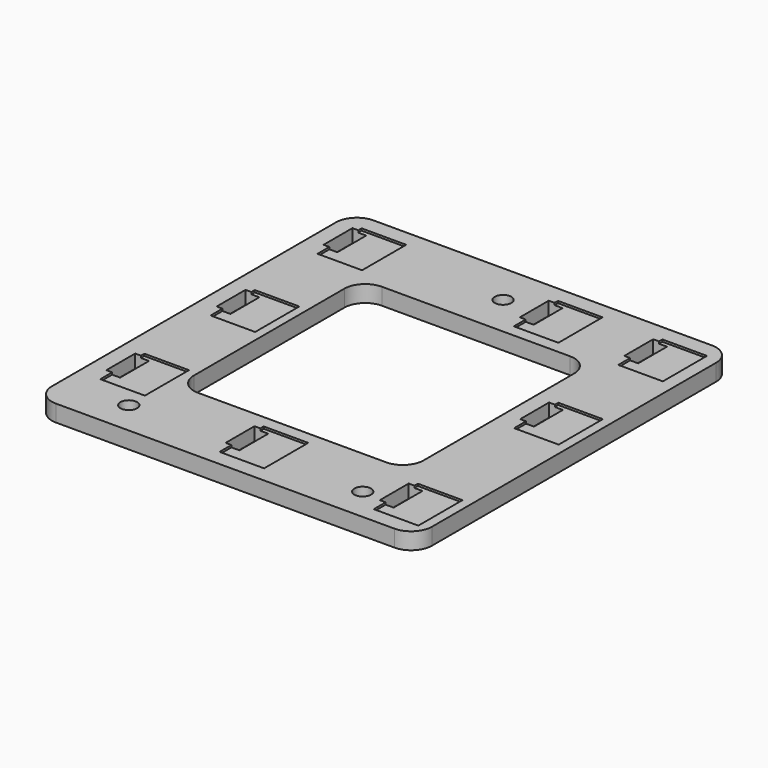
from build123d import *

# Parameters (mm, degrees)
F0_W     = 91
F0_H     = 95
F0_R     = 2
F0_W_2   = 55
F0_H_2   = 55
F1_DEPTH = 4
F3_DEPTH = 0.5
F4_DEPTH = 3.2
F5_DEPTH = 25
F7_R     = 5


with BuildPart() as f1:
    # F0 (on Top) → F1 (new body)
    with BuildSketch(Plane.XY):
        with Locations((12.8374768794, -18.1373349681)):
            Rectangle(F0_W, F0_H)
        with Locations((-16.6625231206, -57.6373349681)):
            Circle(F0_R, mode=Mode.SUBTRACT)
        with Locations((39.3374768794, -57.6373349681)):
            Circle(F0_R, mode=Mode.SUBTRACT)
        with Locations((11.3374768794, 19.3626650319)):
            Circle(F0_R, mode=Mode.SUBTRACT)
        with Locations((12.8374768794, -18.1373349681)):
            Rectangle(F0_W_2, F0_H_2, mode=Mode.SUBTRACT)
    extrude(amount=F1_DEPTH)

    # F2 (on face) → F3 (cut)
    with BuildSketch(Plane.XY.offset(4)):
        Polygon((44.6034768794, 12.2586650319), (55.2714768794, 12.2586650319), (55.2714768794, 25.4666650319), (44.6034768794, 25.4666650319), (44.6034768794, 24.4506650319), (46.5084768794, 24.4506650319), (46.5084768794, 15.8146650319), (44.6034768794, 15.8146650319), align=None)
        with BuildLine():
            Line((43.2064768794, 15.8146650319), (44.6034768794, 15.8146650319))
            Line((44.6034768794, 15.8146650319), (44.6034768794, 17.0216054903))
            ThreePointArc((44.6034768794, 17.0216054903), (44.2324768794, 17.5926650319), (44.6034768794, 18.1637245734))
            Line((44.6034768794, 18.1637245734), (44.6034768794, 19.5616054903))
            ThreePointArc((44.6034768794, 19.5616054903), (44.2324768794, 20.1326650319), (44.6034768794, 20.7037245734))
            Line((44.6034768794, 20.7037245734), (44.6034768794, 22.1016054903))
            ThreePointArc((44.6034768794, 22.1016054903), (44.2324768794, 22.6726650319), (44.6034768794, 23.2437245734))
            Line((44.6034768794, 23.2437245734), (44.6034768794, 24.4506650319))
            Line((44.6034768794, 24.4506650319), (43.2064768794, 24.4506650319))
            Line((43.2064768794, 24.4506650319), (43.2064768794, 15.8146650319))
        make_face()
        with BuildLine():
            Line((44.6034768794, 17.0216054903), (44.6034768794, 15.8146650319))
            Line((44.6034768794, 15.8146650319), (46.5084768794, 15.8146650319))
            Line((46.5084768794, 15.8146650319), (46.5084768794, 24.4506650319))
            Line((46.5084768794, 24.4506650319), (44.6034768794, 24.4506650319))
            Line((44.6034768794, 24.4506650319), (44.6034768794, 23.2437245734))
            ThreePointArc((44.6034768794, 23.2437245734), (45.1979728412, 23.1967714142), (45.4824768794, 22.6726650319))
            ThreePointArc((45.4824768794, 22.6726650319), (45.1979728412, 22.1485586495), (44.6034768794, 22.1016054903))
            Line((44.6034768794, 22.1016054903), (44.6034768794, 20.7037245734))
            ThreePointArc((44.6034768794, 20.7037245734), (45.1979728412, 20.6567714142), (45.4824768794, 20.1326650319))
            ThreePointArc((45.4824768794, 20.1326650319), (45.1979728412, 19.6085586495), (44.6034768794, 19.5616054903))
            Line((44.6034768794, 19.5616054903), (44.6034768794, 18.1637245734))
            ThreePointArc((44.6034768794, 18.1637245734), (45.1979728412, 18.1167714142), (45.4824768794, 17.5926650319))
            ThreePointArc((45.4824768794, 17.5926650319), (45.1979728412, 17.0685586495), (44.6034768794, 17.0216054903))
        make_face()
        Polygon((30.2714768794, 12.2586650319), (30.2714768794, 25.4666650319), (19.6034768794, 25.4666650319), (19.6034768794, 24.4506650319), (21.5084768794, 24.4506650319), (21.5084768794, 15.8146650319), (19.6034768794, 15.8146650319), (19.6034768794, 12.2586650319), align=None)
        with BuildLine():
            Line((19.6034768794, 23.2437245734), (19.6034768794, 24.4506650319))
            Line((19.6034768794, 24.4506650319), (18.2064768794, 24.4506650319))
            Line((18.2064768794, 24.4506650319), (18.2064768794, 15.8146650319))
            Line((18.2064768794, 15.8146650319), (19.6034768794, 15.8146650319))
            Line((19.6034768794, 15.8146650319), (19.6034768794, 17.0216054903))
            ThreePointArc((19.6034768794, 17.0216054903), (19.2324768794, 17.5926650319), (19.6034768794, 18.1637245734))
            Line((19.6034768794, 18.1637245734), (19.6034768794, 19.5616054903))
            ThreePointArc((19.6034768794, 19.5616054903), (19.2324768794, 20.1326650319), (19.6034768794, 20.7037245734))
            Line((19.6034768794, 20.7037245734), (19.6034768794, 22.1016054903))
            ThreePointArc((19.6034768794, 22.1016054903), (19.2324768794, 22.6726650319), (19.6034768794, 23.2437245734))
        make_face()
        with BuildLine():
            Line((21.5084768794, 24.4506650319), (19.6034768794, 24.4506650319))
            Line((19.6034768794, 24.4506650319), (19.6034768794, 23.2437245734))
            ThreePointArc((19.6034768794, 23.2437245734), (20.1979728412, 23.1967714142), (20.4824768794, 22.6726650319))
            ThreePointArc((20.4824768794, 22.6726650319), (20.1979728412, 22.1485586495), (19.6034768794, 22.1016054903))
            Line((19.6034768794, 22.1016054903), (19.6034768794, 20.7037245734))
            ThreePointArc((19.6034768794, 20.7037245734), (20.1979728412, 20.6567714142), (20.4824768794, 20.1326650319))
            ThreePointArc((20.4824768794, 20.1326650319), (20.1979728412, 19.6085586495), (19.6034768794, 19.5616054903))
            Line((19.6034768794, 19.5616054903), (19.6034768794, 18.1637245734))
            ThreePointArc((19.6034768794, 18.1637245734), (20.1979728412, 18.1167714142), (20.4824768794, 17.5926650319))
            ThreePointArc((20.4824768794, 17.5926650319), (20.1979728412, 17.0685586495), (19.6034768794, 17.0216054903))
            Line((19.6034768794, 17.0216054903), (19.6034768794, 15.8146650319))
            Line((19.6034768794, 15.8146650319), (21.5084768794, 15.8146650319))
            Line((21.5084768794, 15.8146650319), (21.5084768794, 24.4506650319))
        make_face()
        with BuildLine():
            Line((-27.3965231206, 24.4506650319), (-28.7935231206, 24.4506650319))
            Line((-28.7935231206, 24.4506650319), (-28.7935231206, 15.8146650319))
            Line((-28.7935231206, 15.8146650319), (-27.3965231206, 15.8146650319))
            Line((-27.3965231206, 15.8146650319), (-27.3965231206, 17.0216054903))
            ThreePointArc((-27.3965231206, 17.0216054903), (-27.7675231206, 17.5926650319), (-27.3965231206, 18.1637245734))
            Line((-27.3965231206, 18.1637245734), (-27.3965231206, 19.5616054903))
            ThreePointArc((-27.3965231206, 19.5616054903), (-27.7675231206, 20.1326650319), (-27.3965231206, 20.7037245734))
            Line((-27.3965231206, 20.7037245734), (-27.3965231206, 22.1016054903))
            ThreePointArc((-27.3965231206, 22.1016054903), (-27.7675231206, 22.6726650319), (-27.3965231206, 23.2437245734))
            Line((-27.3965231206, 23.2437245734), (-27.3965231206, 24.4506650319))
        make_face()
        with BuildLine():
            Line((-25.4915231206, 24.4506650319), (-27.3965231206, 24.4506650319))
            Line((-27.3965231206, 24.4506650319), (-27.3965231206, 23.2437245734))
            ThreePointArc((-27.3965231206, 23.2437245734), (-26.8020271588, 23.1967714142), (-26.5175231206, 22.6726650319))
            ThreePointArc((-26.5175231206, 22.6726650319), (-26.8020271588, 22.1485586495), (-27.3965231206, 22.1016054903))
            Line((-27.3965231206, 22.1016054903), (-27.3965231206, 20.7037245734))
            ThreePointArc((-27.3965231206, 20.7037245734), (-26.8020271588, 20.6567714142), (-26.5175231206, 20.1326650319))
            ThreePointArc((-26.5175231206, 20.1326650319), (-26.8020271588, 19.6085586495), (-27.3965231206, 19.5616054903))
            Line((-27.3965231206, 19.5616054903), (-27.3965231206, 18.1637245734))
            ThreePointArc((-27.3965231206, 18.1637245734), (-26.8020271588, 18.1167714142), (-26.5175231206, 17.5926650319))
            ThreePointArc((-26.5175231206, 17.5926650319), (-26.8020271588, 17.0685586495), (-27.3965231206, 17.0216054903))
            Line((-27.3965231206, 17.0216054903), (-27.3965231206, 15.8146650319))
            Line((-27.3965231206, 15.8146650319), (-25.4915231206, 15.8146650319))
            Line((-25.4915231206, 15.8146650319), (-25.4915231206, 24.4506650319))
        make_face()
        Polygon((-27.3965231206, 25.4666650319), (-27.3965231206, 24.4506650319), (-25.4915231206, 24.4506650319), (-25.4915231206, 15.8146650319), (-27.3965231206, 15.8146650319), (-27.3965231206, 12.2586650319), (-16.7285231206, 12.2586650319), (-16.7285231206, 25.4666650319), align=None)
        Polygon((-27.3965231206, -7.5387597846), (-25.4915231206, -7.5387597846), (-25.4915231206, -16.1747597846), (-27.3965231206, -16.1747597846), (-27.3965231206, -19.7307597846), (-16.7285231206, -19.7307597846), (-16.7285231206, -6.5227597846), (-27.3965231206, -6.5227597846), align=None)
        with BuildLine():
            Line((-25.4915231206, -16.1747597846), (-25.4915231206, -7.5387597846))
            Line((-25.4915231206, -7.5387597846), (-27.3965231206, -7.5387597846))
            Line((-27.3965231206, -7.5387597846), (-27.3965231206, -8.745700243))
            ThreePointArc((-27.3965231206, -8.745700243), (-26.8020271588, -8.7926534022), (-26.5175231206, -9.3167597846))
            ThreePointArc((-26.5175231206, -9.3167597846), (-26.8020271588, -9.8408661669), (-27.3965231206, -9.8878193261))
            Line((-27.3965231206, -9.8878193261), (-27.3965231206, -11.285700243))
            ThreePointArc((-27.3965231206, -11.285700243), (-26.8020271588, -11.3326534022), (-26.5175231206, -11.8567597846))
            ThreePointArc((-26.5175231206, -11.8567597846), (-26.8020271588, -12.3808661669), (-27.3965231206, -12.4278193261))
            Line((-27.3965231206, -12.4278193261), (-27.3965231206, -13.825700243))
            ThreePointArc((-27.3965231206, -13.825700243), (-26.8020271588, -13.8726534022), (-26.5175231206, -14.3967597846))
            ThreePointArc((-26.5175231206, -14.3967597846), (-26.8020271588, -14.9208661669), (-27.3965231206, -14.9678193261))
            Line((-27.3965231206, -14.9678193261), (-27.3965231206, -16.1747597846))
            Line((-27.3965231206, -16.1747597846), (-25.4915231206, -16.1747597846))
        make_face()
        with BuildLine():
            Line((-27.3965231206, -8.745700243), (-27.3965231206, -7.5387597846))
            Line((-27.3965231206, -7.5387597846), (-28.7935231206, -7.5387597846))
            Line((-28.7935231206, -7.5387597846), (-28.7935231206, -16.1747597846))
            Line((-28.7935231206, -16.1747597846), (-27.3965231206, -16.1747597846))
            Line((-27.3965231206, -16.1747597846), (-27.3965231206, -14.9678193261))
            ThreePointArc((-27.3965231206, -14.9678193261), (-27.7675231206, -14.3967597846), (-27.3965231206, -13.825700243))
            Line((-27.3965231206, -13.825700243), (-27.3965231206, -12.4278193261))
            ThreePointArc((-27.3965231206, -12.4278193261), (-27.7675231206, -11.8567597846), (-27.3965231206, -11.285700243))
            Line((-27.3965231206, -11.285700243), (-27.3965231206, -9.8878193261))
            ThreePointArc((-27.3965231206, -9.8878193261), (-27.7675231206, -9.3167597846), (-27.3965231206, -8.745700243))
        make_face()
        Polygon((-27.3965231206, -52.7413349681), (-16.7285231206, -52.7413349681), (-16.7285231206, -39.5333349681), (-27.3965231206, -39.5333349681), (-27.3965231206, -40.5493349681), (-25.4915231206, -40.5493349681), (-25.4915231206, -49.1853349681), (-27.3965231206, -49.1853349681), align=None)
        with BuildLine():
            Line((-28.7935231206, -49.1853349681), (-27.3965231206, -49.1853349681))
            Line((-27.3965231206, -49.1853349681), (-27.3965231206, -47.9783945097))
            ThreePointArc((-27.3965231206, -47.9783945097), (-27.7675231206, -47.4073349681), (-27.3965231206, -46.8362754266))
            Line((-27.3965231206, -46.8362754266), (-27.3965231206, -45.4383945097))
            ThreePointArc((-27.3965231206, -45.4383945097), (-27.7675231206, -44.8673349681), (-27.3965231206, -44.2962754266))
            Line((-27.3965231206, -44.2962754266), (-27.3965231206, -42.8983945097))
            ThreePointArc((-27.3965231206, -42.8983945097), (-27.7675231206, -42.3273349681), (-27.3965231206, -41.7562754266))
            Line((-27.3965231206, -41.7562754266), (-27.3965231206, -40.5493349681))
            Line((-27.3965231206, -40.5493349681), (-28.7935231206, -40.5493349681))
            Line((-28.7935231206, -40.5493349681), (-28.7935231206, -49.1853349681))
        make_face()
        with BuildLine():
            Line((-27.3965231206, -47.9783945097), (-27.3965231206, -49.1853349681))
            Line((-27.3965231206, -49.1853349681), (-25.4915231206, -49.1853349681))
            Line((-25.4915231206, -49.1853349681), (-25.4915231206, -40.5493349681))
            Line((-25.4915231206, -40.5493349681), (-27.3965231206, -40.5493349681))
            Line((-27.3965231206, -40.5493349681), (-27.3965231206, -41.7562754266))
            ThreePointArc((-27.3965231206, -41.7562754266), (-26.8020271588, -41.8032285858), (-26.5175231206, -42.3273349681))
            ThreePointArc((-26.5175231206, -42.3273349681), (-26.8020271588, -42.8514413505), (-27.3965231206, -42.8983945097))
            Line((-27.3965231206, -42.8983945097), (-27.3965231206, -44.2962754266))
            ThreePointArc((-27.3965231206, -44.2962754266), (-26.8020271588, -44.3432285858), (-26.5175231206, -44.8673349681))
            ThreePointArc((-26.5175231206, -44.8673349681), (-26.8020271588, -45.3914413505), (-27.3965231206, -45.4383945097))
            Line((-27.3965231206, -45.4383945097), (-27.3965231206, -46.8362754266))
            ThreePointArc((-27.3965231206, -46.8362754266), (-26.8020271588, -46.8832285858), (-26.5175231206, -47.4073349681))
            ThreePointArc((-26.5175231206, -47.4073349681), (-26.8020271588, -47.9314413505), (-27.3965231206, -47.9783945097))
        make_face()
        with BuildLine():
            Line((7.003, -49.608), (7.003, -58.244))
            Line((7.003, -58.244), (8.4, -58.244))
            Line((8.4, -58.244), (8.4, -57.0370595416))
            ThreePointArc((8.4, -57.0370595416), (8.029, -56.466), (8.4, -55.8949404584))
            Line((8.4, -55.8949404584), (8.4, -54.4970595416))
            ThreePointArc((8.4, -54.4970595416), (8.029, -53.926), (8.4, -53.3549404584))
            Line((8.4, -53.3549404584), (8.4, -51.9570595416))
            ThreePointArc((8.4, -51.9570595416), (8.029, -51.386), (8.4, -50.8149404584))
            Line((8.4, -50.8149404584), (8.4, -49.608))
            Line((8.4, -49.608), (7.003, -49.608))
        make_face()
        with BuildLine():
            Line((8.4, -57.0370595416), (8.4, -58.244))
            Line((8.4, -58.244), (10.305, -58.244))
            Line((10.305, -58.244), (10.305, -49.608))
            Line((10.305, -49.608), (8.4, -49.608))
            Line((8.4, -49.608), (8.4, -50.8149404584))
            ThreePointArc((8.4, -50.8149404584), (8.9944959618, -50.8618936177), (9.279, -51.386))
            ThreePointArc((9.279, -51.386), (8.9944959618, -51.9101063823), (8.4, -51.9570595416))
            Line((8.4, -51.9570595416), (8.4, -53.3549404584))
            ThreePointArc((8.4, -53.3549404584), (8.9944959618, -53.4018936177), (9.279, -53.926))
            ThreePointArc((9.279, -53.926), (8.9944959618, -54.4501063823), (8.4, -54.4970595416))
            Line((8.4, -54.4970595416), (8.4, -55.8949404584))
            ThreePointArc((8.4, -55.8949404584), (8.9944959618, -55.9418936177), (9.279, -56.466))
            ThreePointArc((9.279, -56.466), (8.9944959618, -56.9901063823), (8.4, -57.0370595416))
        make_face()
        Polygon((10.305, -58.244), (8.4, -58.244), (8.4, -61.8), (19.068, -61.8), (19.068, -48.592), (8.4, -48.592), (8.4, -49.608), (10.305, -49.608), align=None)
        Polygon((45.4, -61.9), (56.068, -61.9), (56.068, -48.692), (45.4, -48.692), (45.4, -49.708), (47.305, -49.708), (47.305, -58.344), (45.4, -58.344), align=None)
        with BuildLine():
            Line((45.4, -57.1370595416), (45.4, -58.344))
            Line((45.4, -58.344), (47.305, -58.344))
            Line((47.305, -58.344), (47.305, -49.708))
            Line((47.305, -49.708), (45.4, -49.708))
            Line((45.4, -49.708), (45.4, -50.9149404584))
            ThreePointArc((45.4, -50.9149404584), (45.9944959618, -50.9618936177), (46.279, -51.486))
            ThreePointArc((46.279, -51.486), (45.9944959618, -52.0101063823), (45.4, -52.0570595416))
            Line((45.4, -52.0570595416), (45.4, -53.4549404584))
            ThreePointArc((45.4, -53.4549404584), (45.9944959618, -53.5018936177), (46.279, -54.026))
            ThreePointArc((46.279, -54.026), (45.9944959618, -54.5501063823), (45.4, -54.5970595416))
            Line((45.4, -54.5970595416), (45.4, -55.9949404584))
            ThreePointArc((45.4, -55.9949404584), (45.9944959618, -56.0418936177), (46.279, -56.566))
            ThreePointArc((46.279, -56.566), (45.9944959618, -57.0901063823), (45.4, -57.1370595416))
        make_face()
        with BuildLine():
            Line((44.003, -58.344), (45.4, -58.344))
            Line((45.4, -58.344), (45.4, -57.1370595416))
            ThreePointArc((45.4, -57.1370595416), (45.029, -56.566), (45.4, -55.9949404584))
            Line((45.4, -55.9949404584), (45.4, -54.5970595416))
            ThreePointArc((45.4, -54.5970595416), (45.029, -54.026), (45.4, -53.4549404584))
            Line((45.4, -53.4549404584), (45.4, -52.0570595416))
            ThreePointArc((45.4, -52.0570595416), (45.029, -51.486), (45.4, -50.9149404584))
            Line((45.4, -50.9149404584), (45.4, -49.708))
            Line((45.4, -49.708), (44.003, -49.708))
            Line((44.003, -49.708), (44.003, -58.344))
        make_face()
        Polygon((45.4, -7.708), (47.305, -7.708), (47.305, -16.344), (45.4, -16.344), (45.4, -19.9), (56.068, -19.9), (56.068, -6.692), (45.4, -6.692), align=None)
        with BuildLine():
            Line((47.305, -16.344), (47.305, -7.708))
            Line((47.305, -7.708), (45.4, -7.708))
            Line((45.4, -7.708), (45.4, -8.9149404584))
            ThreePointArc((45.4, -8.9149404584), (45.9944959618, -8.9618936177), (46.279, -9.486))
            ThreePointArc((46.279, -9.486), (45.9944959618, -10.0101063823), (45.4, -10.0570595416))
            Line((45.4, -10.0570595416), (45.4, -11.4549404584))
            ThreePointArc((45.4, -11.4549404584), (45.9944959618, -11.5018936177), (46.279, -12.026))
            ThreePointArc((46.279, -12.026), (45.9944959618, -12.5501063823), (45.4, -12.5970595416))
            Line((45.4, -12.5970595416), (45.4, -13.9949404584))
            ThreePointArc((45.4, -13.9949404584), (45.9944959618, -14.0418936177), (46.279, -14.566))
            ThreePointArc((46.279, -14.566), (45.9944959618, -15.0901063823), (45.4, -15.1370595416))
            Line((45.4, -15.1370595416), (45.4, -16.344))
            Line((45.4, -16.344), (47.305, -16.344))
        make_face()
        with BuildLine():
            Line((45.4, -8.9149404584), (45.4, -7.708))
            Line((45.4, -7.708), (44.003, -7.708))
            Line((44.003, -7.708), (44.003, -16.344))
            Line((44.003, -16.344), (45.4, -16.344))
            Line((45.4, -16.344), (45.4, -15.1370595416))
            ThreePointArc((45.4, -15.1370595416), (45.029, -14.566), (45.4, -13.9949404584))
            Line((45.4, -13.9949404584), (45.4, -12.5970595416))
            ThreePointArc((45.4, -12.5970595416), (45.029, -12.026), (45.4, -11.4549404584))
            Line((45.4, -11.4549404584), (45.4, -10.0570595416))
            ThreePointArc((45.4, -10.0570595416), (45.029, -9.486), (45.4, -8.9149404584))
        make_face()
    extrude(amount=-F3_DEPTH, mode=Mode.SUBTRACT)

    # F2 (on face) → F4 (cut)
    with BuildSketch(Plane.XY.offset(4)):
        with BuildLine():
            Line((43.2064768794, 15.8146650319), (44.6034768794, 15.8146650319))
            Line((44.6034768794, 15.8146650319), (44.6034768794, 17.0216054903))
            ThreePointArc((44.6034768794, 17.0216054903), (44.2324768794, 17.5926650319), (44.6034768794, 18.1637245734))
            Line((44.6034768794, 18.1637245734), (44.6034768794, 19.5616054903))
            ThreePointArc((44.6034768794, 19.5616054903), (44.2324768794, 20.1326650319), (44.6034768794, 20.7037245734))
            Line((44.6034768794, 20.7037245734), (44.6034768794, 22.1016054903))
            ThreePointArc((44.6034768794, 22.1016054903), (44.2324768794, 22.6726650319), (44.6034768794, 23.2437245734))
            Line((44.6034768794, 23.2437245734), (44.6034768794, 24.4506650319))
            Line((44.6034768794, 24.4506650319), (43.2064768794, 24.4506650319))
            Line((43.2064768794, 24.4506650319), (43.2064768794, 15.8146650319))
        make_face()
        with BuildLine():
            Line((44.6034768794, 17.0216054903), (44.6034768794, 15.8146650319))
            Line((44.6034768794, 15.8146650319), (46.5084768794, 15.8146650319))
            Line((46.5084768794, 15.8146650319), (46.5084768794, 24.4506650319))
            Line((46.5084768794, 24.4506650319), (44.6034768794, 24.4506650319))
            Line((44.6034768794, 24.4506650319), (44.6034768794, 23.2437245734))
            ThreePointArc((44.6034768794, 23.2437245734), (45.1979728412, 23.1967714142), (45.4824768794, 22.6726650319))
            ThreePointArc((45.4824768794, 22.6726650319), (45.1979728412, 22.1485586495), (44.6034768794, 22.1016054903))
            Line((44.6034768794, 22.1016054903), (44.6034768794, 20.7037245734))
            ThreePointArc((44.6034768794, 20.7037245734), (45.1979728412, 20.6567714142), (45.4824768794, 20.1326650319))
            ThreePointArc((45.4824768794, 20.1326650319), (45.1979728412, 19.6085586495), (44.6034768794, 19.5616054903))
            Line((44.6034768794, 19.5616054903), (44.6034768794, 18.1637245734))
            ThreePointArc((44.6034768794, 18.1637245734), (45.1979728412, 18.1167714142), (45.4824768794, 17.5926650319))
            ThreePointArc((45.4824768794, 17.5926650319), (45.1979728412, 17.0685586495), (44.6034768794, 17.0216054903))
        make_face()
        with BuildLine():
            Line((21.5084768794, 24.4506650319), (19.6034768794, 24.4506650319))
            Line((19.6034768794, 24.4506650319), (19.6034768794, 23.2437245734))
            ThreePointArc((19.6034768794, 23.2437245734), (20.1979728412, 23.1967714142), (20.4824768794, 22.6726650319))
            ThreePointArc((20.4824768794, 22.6726650319), (20.1979728412, 22.1485586495), (19.6034768794, 22.1016054903))
            Line((19.6034768794, 22.1016054903), (19.6034768794, 20.7037245734))
            ThreePointArc((19.6034768794, 20.7037245734), (20.1979728412, 20.6567714142), (20.4824768794, 20.1326650319))
            ThreePointArc((20.4824768794, 20.1326650319), (20.1979728412, 19.6085586495), (19.6034768794, 19.5616054903))
            Line((19.6034768794, 19.5616054903), (19.6034768794, 18.1637245734))
            ThreePointArc((19.6034768794, 18.1637245734), (20.1979728412, 18.1167714142), (20.4824768794, 17.5926650319))
            ThreePointArc((20.4824768794, 17.5926650319), (20.1979728412, 17.0685586495), (19.6034768794, 17.0216054903))
            Line((19.6034768794, 17.0216054903), (19.6034768794, 15.8146650319))
            Line((19.6034768794, 15.8146650319), (21.5084768794, 15.8146650319))
            Line((21.5084768794, 15.8146650319), (21.5084768794, 24.4506650319))
        make_face()
        with BuildLine():
            Line((19.6034768794, 23.2437245734), (19.6034768794, 24.4506650319))
            Line((19.6034768794, 24.4506650319), (18.2064768794, 24.4506650319))
            Line((18.2064768794, 24.4506650319), (18.2064768794, 15.8146650319))
            Line((18.2064768794, 15.8146650319), (19.6034768794, 15.8146650319))
            Line((19.6034768794, 15.8146650319), (19.6034768794, 17.0216054903))
            ThreePointArc((19.6034768794, 17.0216054903), (19.2324768794, 17.5926650319), (19.6034768794, 18.1637245734))
            Line((19.6034768794, 18.1637245734), (19.6034768794, 19.5616054903))
            ThreePointArc((19.6034768794, 19.5616054903), (19.2324768794, 20.1326650319), (19.6034768794, 20.7037245734))
            Line((19.6034768794, 20.7037245734), (19.6034768794, 22.1016054903))
            ThreePointArc((19.6034768794, 22.1016054903), (19.2324768794, 22.6726650319), (19.6034768794, 23.2437245734))
        make_face()
        with BuildLine():
            Line((47.305, -16.344), (47.305, -7.708))
            Line((47.305, -7.708), (45.4, -7.708))
            Line((45.4, -7.708), (45.4, -8.9149404584))
            ThreePointArc((45.4, -8.9149404584), (45.9944959618, -8.9618936177), (46.279, -9.486))
            ThreePointArc((46.279, -9.486), (45.9944959618, -10.0101063823), (45.4, -10.0570595416))
            Line((45.4, -10.0570595416), (45.4, -11.4549404584))
            ThreePointArc((45.4, -11.4549404584), (45.9944959618, -11.5018936177), (46.279, -12.026))
            ThreePointArc((46.279, -12.026), (45.9944959618, -12.5501063823), (45.4, -12.5970595416))
            Line((45.4, -12.5970595416), (45.4, -13.9949404584))
            ThreePointArc((45.4, -13.9949404584), (45.9944959618, -14.0418936177), (46.279, -14.566))
            ThreePointArc((46.279, -14.566), (45.9944959618, -15.0901063823), (45.4, -15.1370595416))
            Line((45.4, -15.1370595416), (45.4, -16.344))
            Line((45.4, -16.344), (47.305, -16.344))
        make_face()
        with BuildLine():
            Line((45.4, -8.9149404584), (45.4, -7.708))
            Line((45.4, -7.708), (44.003, -7.708))
            Line((44.003, -7.708), (44.003, -16.344))
            Line((44.003, -16.344), (45.4, -16.344))
            Line((45.4, -16.344), (45.4, -15.1370595416))
            ThreePointArc((45.4, -15.1370595416), (45.029, -14.566), (45.4, -13.9949404584))
            Line((45.4, -13.9949404584), (45.4, -12.5970595416))
            ThreePointArc((45.4, -12.5970595416), (45.029, -12.026), (45.4, -11.4549404584))
            Line((45.4, -11.4549404584), (45.4, -10.0570595416))
            ThreePointArc((45.4, -10.0570595416), (45.029, -9.486), (45.4, -8.9149404584))
        make_face()
        with BuildLine():
            Line((45.4, -57.1370595416), (45.4, -58.344))
            Line((45.4, -58.344), (47.305, -58.344))
            Line((47.305, -58.344), (47.305, -49.708))
            Line((47.305, -49.708), (45.4, -49.708))
            Line((45.4, -49.708), (45.4, -50.9149404584))
            ThreePointArc((45.4, -50.9149404584), (45.9944959618, -50.9618936177), (46.279, -51.486))
            ThreePointArc((46.279, -51.486), (45.9944959618, -52.0101063823), (45.4, -52.0570595416))
            Line((45.4, -52.0570595416), (45.4, -53.4549404584))
            ThreePointArc((45.4, -53.4549404584), (45.9944959618, -53.5018936177), (46.279, -54.026))
            ThreePointArc((46.279, -54.026), (45.9944959618, -54.5501063823), (45.4, -54.5970595416))
            Line((45.4, -54.5970595416), (45.4, -55.9949404584))
            ThreePointArc((45.4, -55.9949404584), (45.9944959618, -56.0418936177), (46.279, -56.566))
            ThreePointArc((46.279, -56.566), (45.9944959618, -57.0901063823), (45.4, -57.1370595416))
        make_face()
        with BuildLine():
            Line((44.003, -58.344), (45.4, -58.344))
            Line((45.4, -58.344), (45.4, -57.1370595416))
            ThreePointArc((45.4, -57.1370595416), (45.029, -56.566), (45.4, -55.9949404584))
            Line((45.4, -55.9949404584), (45.4, -54.5970595416))
            ThreePointArc((45.4, -54.5970595416), (45.029, -54.026), (45.4, -53.4549404584))
            Line((45.4, -53.4549404584), (45.4, -52.0570595416))
            ThreePointArc((45.4, -52.0570595416), (45.029, -51.486), (45.4, -50.9149404584))
            Line((45.4, -50.9149404584), (45.4, -49.708))
            Line((45.4, -49.708), (44.003, -49.708))
            Line((44.003, -49.708), (44.003, -58.344))
        make_face()
        with BuildLine():
            Line((8.4, -57.0370595416), (8.4, -58.244))
            Line((8.4, -58.244), (10.305, -58.244))
            Line((10.305, -58.244), (10.305, -49.608))
            Line((10.305, -49.608), (8.4, -49.608))
            Line((8.4, -49.608), (8.4, -50.8149404584))
            ThreePointArc((8.4, -50.8149404584), (8.9944959618, -50.8618936177), (9.279, -51.386))
            ThreePointArc((9.279, -51.386), (8.9944959618, -51.9101063823), (8.4, -51.9570595416))
            Line((8.4, -51.9570595416), (8.4, -53.3549404584))
            ThreePointArc((8.4, -53.3549404584), (8.9944959618, -53.4018936177), (9.279, -53.926))
            ThreePointArc((9.279, -53.926), (8.9944959618, -54.4501063823), (8.4, -54.4970595416))
            Line((8.4, -54.4970595416), (8.4, -55.8949404584))
            ThreePointArc((8.4, -55.8949404584), (8.9944959618, -55.9418936177), (9.279, -56.466))
            ThreePointArc((9.279, -56.466), (8.9944959618, -56.9901063823), (8.4, -57.0370595416))
        make_face()
        with BuildLine():
            Line((7.003, -49.608), (7.003, -58.244))
            Line((7.003, -58.244), (8.4, -58.244))
            Line((8.4, -58.244), (8.4, -57.0370595416))
            ThreePointArc((8.4, -57.0370595416), (8.029, -56.466), (8.4, -55.8949404584))
            Line((8.4, -55.8949404584), (8.4, -54.4970595416))
            ThreePointArc((8.4, -54.4970595416), (8.029, -53.926), (8.4, -53.3549404584))
            Line((8.4, -53.3549404584), (8.4, -51.9570595416))
            ThreePointArc((8.4, -51.9570595416), (8.029, -51.386), (8.4, -50.8149404584))
            Line((8.4, -50.8149404584), (8.4, -49.608))
            Line((8.4, -49.608), (7.003, -49.608))
        make_face()
        with BuildLine():
            Line((-27.3965231206, -47.9783945097), (-27.3965231206, -49.1853349681))
            Line((-27.3965231206, -49.1853349681), (-25.4915231206, -49.1853349681))
            Line((-25.4915231206, -49.1853349681), (-25.4915231206, -40.5493349681))
            Line((-25.4915231206, -40.5493349681), (-27.3965231206, -40.5493349681))
            Line((-27.3965231206, -40.5493349681), (-27.3965231206, -41.7562754266))
            ThreePointArc((-27.3965231206, -41.7562754266), (-26.8020271588, -41.8032285858), (-26.5175231206, -42.3273349681))
            ThreePointArc((-26.5175231206, -42.3273349681), (-26.8020271588, -42.8514413505), (-27.3965231206, -42.8983945097))
            Line((-27.3965231206, -42.8983945097), (-27.3965231206, -44.2962754266))
            ThreePointArc((-27.3965231206, -44.2962754266), (-26.8020271588, -44.3432285858), (-26.5175231206, -44.8673349681))
            ThreePointArc((-26.5175231206, -44.8673349681), (-26.8020271588, -45.3914413505), (-27.3965231206, -45.4383945097))
            Line((-27.3965231206, -45.4383945097), (-27.3965231206, -46.8362754266))
            ThreePointArc((-27.3965231206, -46.8362754266), (-26.8020271588, -46.8832285858), (-26.5175231206, -47.4073349681))
            ThreePointArc((-26.5175231206, -47.4073349681), (-26.8020271588, -47.9314413505), (-27.3965231206, -47.9783945097))
        make_face()
        with BuildLine():
            Line((-28.7935231206, -49.1853349681), (-27.3965231206, -49.1853349681))
            Line((-27.3965231206, -49.1853349681), (-27.3965231206, -47.9783945097))
            ThreePointArc((-27.3965231206, -47.9783945097), (-27.7675231206, -47.4073349681), (-27.3965231206, -46.8362754266))
            Line((-27.3965231206, -46.8362754266), (-27.3965231206, -45.4383945097))
            ThreePointArc((-27.3965231206, -45.4383945097), (-27.7675231206, -44.8673349681), (-27.3965231206, -44.2962754266))
            Line((-27.3965231206, -44.2962754266), (-27.3965231206, -42.8983945097))
            ThreePointArc((-27.3965231206, -42.8983945097), (-27.7675231206, -42.3273349681), (-27.3965231206, -41.7562754266))
            Line((-27.3965231206, -41.7562754266), (-27.3965231206, -40.5493349681))
            Line((-27.3965231206, -40.5493349681), (-28.7935231206, -40.5493349681))
            Line((-28.7935231206, -40.5493349681), (-28.7935231206, -49.1853349681))
        make_face()
        with BuildLine():
            Line((-25.4915231206, -16.1747597846), (-25.4915231206, -7.5387597846))
            Line((-25.4915231206, -7.5387597846), (-27.3965231206, -7.5387597846))
            Line((-27.3965231206, -7.5387597846), (-27.3965231206, -8.745700243))
            ThreePointArc((-27.3965231206, -8.745700243), (-26.8020271588, -8.7926534022), (-26.5175231206, -9.3167597846))
            ThreePointArc((-26.5175231206, -9.3167597846), (-26.8020271588, -9.8408661669), (-27.3965231206, -9.8878193261))
            Line((-27.3965231206, -9.8878193261), (-27.3965231206, -11.285700243))
            ThreePointArc((-27.3965231206, -11.285700243), (-26.8020271588, -11.3326534022), (-26.5175231206, -11.8567597846))
            ThreePointArc((-26.5175231206, -11.8567597846), (-26.8020271588, -12.3808661669), (-27.3965231206, -12.4278193261))
            Line((-27.3965231206, -12.4278193261), (-27.3965231206, -13.825700243))
            ThreePointArc((-27.3965231206, -13.825700243), (-26.8020271588, -13.8726534022), (-26.5175231206, -14.3967597846))
            ThreePointArc((-26.5175231206, -14.3967597846), (-26.8020271588, -14.9208661669), (-27.3965231206, -14.9678193261))
            Line((-27.3965231206, -14.9678193261), (-27.3965231206, -16.1747597846))
            Line((-27.3965231206, -16.1747597846), (-25.4915231206, -16.1747597846))
        make_face()
        with BuildLine():
            Line((-27.3965231206, -8.745700243), (-27.3965231206, -7.5387597846))
            Line((-27.3965231206, -7.5387597846), (-28.7935231206, -7.5387597846))
            Line((-28.7935231206, -7.5387597846), (-28.7935231206, -16.1747597846))
            Line((-28.7935231206, -16.1747597846), (-27.3965231206, -16.1747597846))
            Line((-27.3965231206, -16.1747597846), (-27.3965231206, -14.9678193261))
            ThreePointArc((-27.3965231206, -14.9678193261), (-27.7675231206, -14.3967597846), (-27.3965231206, -13.825700243))
            Line((-27.3965231206, -13.825700243), (-27.3965231206, -12.4278193261))
            ThreePointArc((-27.3965231206, -12.4278193261), (-27.7675231206, -11.8567597846), (-27.3965231206, -11.285700243))
            Line((-27.3965231206, -11.285700243), (-27.3965231206, -9.8878193261))
            ThreePointArc((-27.3965231206, -9.8878193261), (-27.7675231206, -9.3167597846), (-27.3965231206, -8.745700243))
        make_face()
        with BuildLine():
            Line((-25.4915231206, 24.4506650319), (-27.3965231206, 24.4506650319))
            Line((-27.3965231206, 24.4506650319), (-27.3965231206, 23.2437245734))
            ThreePointArc((-27.3965231206, 23.2437245734), (-26.8020271588, 23.1967714142), (-26.5175231206, 22.6726650319))
            ThreePointArc((-26.5175231206, 22.6726650319), (-26.8020271588, 22.1485586495), (-27.3965231206, 22.1016054903))
            Line((-27.3965231206, 22.1016054903), (-27.3965231206, 20.7037245734))
            ThreePointArc((-27.3965231206, 20.7037245734), (-26.8020271588, 20.6567714142), (-26.5175231206, 20.1326650319))
            ThreePointArc((-26.5175231206, 20.1326650319), (-26.8020271588, 19.6085586495), (-27.3965231206, 19.5616054903))
            Line((-27.3965231206, 19.5616054903), (-27.3965231206, 18.1637245734))
            ThreePointArc((-27.3965231206, 18.1637245734), (-26.8020271588, 18.1167714142), (-26.5175231206, 17.5926650319))
            ThreePointArc((-26.5175231206, 17.5926650319), (-26.8020271588, 17.0685586495), (-27.3965231206, 17.0216054903))
            Line((-27.3965231206, 17.0216054903), (-27.3965231206, 15.8146650319))
            Line((-27.3965231206, 15.8146650319), (-25.4915231206, 15.8146650319))
            Line((-25.4915231206, 15.8146650319), (-25.4915231206, 24.4506650319))
        make_face()
        with BuildLine():
            Line((-27.3965231206, 24.4506650319), (-28.7935231206, 24.4506650319))
            Line((-28.7935231206, 24.4506650319), (-28.7935231206, 15.8146650319))
            Line((-28.7935231206, 15.8146650319), (-27.3965231206, 15.8146650319))
            Line((-27.3965231206, 15.8146650319), (-27.3965231206, 17.0216054903))
            ThreePointArc((-27.3965231206, 17.0216054903), (-27.7675231206, 17.5926650319), (-27.3965231206, 18.1637245734))
            Line((-27.3965231206, 18.1637245734), (-27.3965231206, 19.5616054903))
            ThreePointArc((-27.3965231206, 19.5616054903), (-27.7675231206, 20.1326650319), (-27.3965231206, 20.7037245734))
            Line((-27.3965231206, 20.7037245734), (-27.3965231206, 22.1016054903))
            ThreePointArc((-27.3965231206, 22.1016054903), (-27.7675231206, 22.6726650319), (-27.3965231206, 23.2437245734))
            Line((-27.3965231206, 23.2437245734), (-27.3965231206, 24.4506650319))
        make_face()
    extrude(amount=-F4_DEPTH, mode=Mode.SUBTRACT)

    # F2 (on face) → F5 (cut)
    with BuildSketch(Plane.XY.offset(4)):
        with BuildLine():
            ThreePointArc((45.4824768794, 22.6726650319), (45.1979728412, 23.1967714142), (44.6034768794, 23.2437245734))
            Line((44.6034768794, 23.2437245734), (44.6034768794, 22.1016054903))
            ThreePointArc((44.6034768794, 22.1016054903), (45.1979728412, 22.1485586495), (45.4824768794, 22.6726650319))
        make_face()
        with BuildLine():
            Line((44.6034768794, 22.1016054903), (44.6034768794, 23.2437245734))
            ThreePointArc((44.6034768794, 23.2437245734), (44.2324768794, 22.6726650319), (44.6034768794, 22.1016054903))
        make_face()
        with BuildLine():
            Line((44.6034768794, 20.7037245734), (44.6034768794, 19.5616054903))
            ThreePointArc((44.6034768794, 19.5616054903), (45.1979728412, 19.6085586495), (45.4824768794, 20.1326650319))
            ThreePointArc((45.4824768794, 20.1326650319), (45.1979728412, 20.6567714142), (44.6034768794, 20.7037245734))
        make_face()
        with BuildLine():
            ThreePointArc((44.6034768794, 20.7037245734), (44.2324768794, 20.1326650319), (44.6034768794, 19.5616054903))
            Line((44.6034768794, 19.5616054903), (44.6034768794, 20.7037245734))
        make_face()
        with BuildLine():
            Line((44.6034768794, 18.1637245734), (44.6034768794, 17.0216054903))
            ThreePointArc((44.6034768794, 17.0216054903), (45.1979728412, 17.0685586495), (45.4824768794, 17.5926650319))
            ThreePointArc((45.4824768794, 17.5926650319), (45.1979728412, 18.1167714142), (44.6034768794, 18.1637245734))
        make_face()
        with BuildLine():
            ThreePointArc((44.6034768794, 18.1637245734), (44.2324768794, 17.5926650319), (44.6034768794, 17.0216054903))
            Line((44.6034768794, 17.0216054903), (44.6034768794, 18.1637245734))
        make_face()
        with BuildLine():
            Line((19.6034768794, 22.1016054903), (19.6034768794, 23.2437245734))
            ThreePointArc((19.6034768794, 23.2437245734), (19.2324768794, 22.6726650319), (19.6034768794, 22.1016054903))
        make_face()
        with BuildLine():
            ThreePointArc((20.4824768794, 22.6726650319), (20.1979728412, 23.1967714142), (19.6034768794, 23.2437245734))
            Line((19.6034768794, 23.2437245734), (19.6034768794, 22.1016054903))
            ThreePointArc((19.6034768794, 22.1016054903), (20.1979728412, 22.1485586495), (20.4824768794, 22.6726650319))
        make_face()
        with BuildLine():
            Line((19.6034768794, 19.5616054903), (19.6034768794, 20.7037245734))
            ThreePointArc((19.6034768794, 20.7037245734), (19.2324768794, 20.1326650319), (19.6034768794, 19.5616054903))
        make_face()
        with BuildLine():
            ThreePointArc((20.4824768794, 20.1326650319), (20.1979728412, 20.6567714142), (19.6034768794, 20.7037245734))
            Line((19.6034768794, 20.7037245734), (19.6034768794, 19.5616054903))
            ThreePointArc((19.6034768794, 19.5616054903), (20.1979728412, 19.6085586495), (20.4824768794, 20.1326650319))
        make_face()
        with BuildLine():
            ThreePointArc((19.6034768794, 18.1637245734), (19.2324768794, 17.5926650319), (19.6034768794, 17.0216054903))
            Line((19.6034768794, 17.0216054903), (19.6034768794, 18.1637245734))
        make_face()
        with BuildLine():
            Line((19.6034768794, 18.1637245734), (19.6034768794, 17.0216054903))
            ThreePointArc((19.6034768794, 17.0216054903), (20.1979728412, 17.0685586495), (20.4824768794, 17.5926650319))
            ThreePointArc((20.4824768794, 17.5926650319), (20.1979728412, 18.1167714142), (19.6034768794, 18.1637245734))
        make_face()
        with BuildLine():
            ThreePointArc((-26.5175231206, 22.6726650319), (-26.8020271588, 23.1967714142), (-27.3965231206, 23.2437245734))
            Line((-27.3965231206, 23.2437245734), (-27.3965231206, 22.1016054903))
            ThreePointArc((-27.3965231206, 22.1016054903), (-26.8020271588, 22.1485586495), (-26.5175231206, 22.6726650319))
        make_face()
        with BuildLine():
            Line((-27.3965231206, 22.1016054903), (-27.3965231206, 23.2437245734))
            ThreePointArc((-27.3965231206, 23.2437245734), (-27.7675231206, 22.6726650319), (-27.3965231206, 22.1016054903))
        make_face()
        with BuildLine():
            ThreePointArc((-26.5175231206, 20.1326650319), (-26.8020271588, 20.6567714142), (-27.3965231206, 20.7037245734))
            Line((-27.3965231206, 20.7037245734), (-27.3965231206, 19.5616054903))
            ThreePointArc((-27.3965231206, 19.5616054903), (-26.8020271588, 19.6085586495), (-26.5175231206, 20.1326650319))
        make_face()
        with BuildLine():
            Line((-27.3965231206, 19.5616054903), (-27.3965231206, 20.7037245734))
            ThreePointArc((-27.3965231206, 20.7037245734), (-27.7675231206, 20.1326650319), (-27.3965231206, 19.5616054903))
        make_face()
        with BuildLine():
            Line((-27.3965231206, 18.1637245734), (-27.3965231206, 17.0216054903))
            ThreePointArc((-27.3965231206, 17.0216054903), (-26.8020271588, 17.0685586495), (-26.5175231206, 17.5926650319))
            ThreePointArc((-26.5175231206, 17.5926650319), (-26.8020271588, 18.1167714142), (-27.3965231206, 18.1637245734))
        make_face()
        with BuildLine():
            ThreePointArc((-27.3965231206, 18.1637245734), (-27.7675231206, 17.5926650319), (-27.3965231206, 17.0216054903))
            Line((-27.3965231206, 17.0216054903), (-27.3965231206, 18.1637245734))
        make_face()
        with BuildLine():
            Line((-27.3965231206, -9.8878193261), (-27.3965231206, -8.745700243))
            ThreePointArc((-27.3965231206, -8.745700243), (-27.7675231206, -9.3167597846), (-27.3965231206, -9.8878193261))
        make_face()
        with BuildLine():
            ThreePointArc((-26.5175231206, -9.3167597846), (-26.8020271588, -8.7926534022), (-27.3965231206, -8.745700243))
            Line((-27.3965231206, -8.745700243), (-27.3965231206, -9.8878193261))
            ThreePointArc((-27.3965231206, -9.8878193261), (-26.8020271588, -9.8408661669), (-26.5175231206, -9.3167597846))
        make_face()
        with BuildLine():
            ThreePointArc((-26.5175231206, -11.8567597846), (-26.8020271588, -11.3326534022), (-27.3965231206, -11.285700243))
            Line((-27.3965231206, -11.285700243), (-27.3965231206, -12.4278193261))
            ThreePointArc((-27.3965231206, -12.4278193261), (-26.8020271588, -12.3808661669), (-26.5175231206, -11.8567597846))
        make_face()
        with BuildLine():
            Line((-27.3965231206, -12.4278193261), (-27.3965231206, -11.285700243))
            ThreePointArc((-27.3965231206, -11.285700243), (-27.7675231206, -11.8567597846), (-27.3965231206, -12.4278193261))
        make_face()
        with BuildLine():
            Line((-27.3965231206, -13.825700243), (-27.3965231206, -14.9678193261))
            ThreePointArc((-27.3965231206, -14.9678193261), (-26.8020271588, -14.9208661669), (-26.5175231206, -14.3967597846))
            ThreePointArc((-26.5175231206, -14.3967597846), (-26.8020271588, -13.8726534022), (-27.3965231206, -13.825700243))
        make_face()
        with BuildLine():
            ThreePointArc((-27.3965231206, -13.825700243), (-27.7675231206, -14.3967597846), (-27.3965231206, -14.9678193261))
            Line((-27.3965231206, -14.9678193261), (-27.3965231206, -13.825700243))
        make_face()
        with BuildLine():
            ThreePointArc((-26.5175231206, -42.3273349681), (-26.8020271588, -41.8032285858), (-27.3965231206, -41.7562754266))
            Line((-27.3965231206, -41.7562754266), (-27.3965231206, -42.8983945097))
            ThreePointArc((-27.3965231206, -42.8983945097), (-26.8020271588, -42.8514413505), (-26.5175231206, -42.3273349681))
        make_face()
        with BuildLine():
            Line((-27.3965231206, -42.8983945097), (-27.3965231206, -41.7562754266))
            ThreePointArc((-27.3965231206, -41.7562754266), (-27.7675231206, -42.3273349681), (-27.3965231206, -42.8983945097))
        make_face()
        with BuildLine():
            Line((-27.3965231206, -44.2962754266), (-27.3965231206, -45.4383945097))
            ThreePointArc((-27.3965231206, -45.4383945097), (-26.8020271588, -45.3914413505), (-26.5175231206, -44.8673349681))
            ThreePointArc((-26.5175231206, -44.8673349681), (-26.8020271588, -44.3432285858), (-27.3965231206, -44.2962754266))
        make_face()
        with BuildLine():
            ThreePointArc((-27.3965231206, -44.2962754266), (-27.7675231206, -44.8673349681), (-27.3965231206, -45.4383945097))
            Line((-27.3965231206, -45.4383945097), (-27.3965231206, -44.2962754266))
        make_face()
        with BuildLine():
            Line((-27.3965231206, -46.8362754266), (-27.3965231206, -47.9783945097))
            ThreePointArc((-27.3965231206, -47.9783945097), (-26.8020271588, -47.9314413505), (-26.5175231206, -47.4073349681))
            ThreePointArc((-26.5175231206, -47.4073349681), (-26.8020271588, -46.8832285858), (-27.3965231206, -46.8362754266))
        make_face()
        with BuildLine():
            ThreePointArc((-27.3965231206, -46.8362754266), (-27.7675231206, -47.4073349681), (-27.3965231206, -47.9783945097))
            Line((-27.3965231206, -47.9783945097), (-27.3965231206, -46.8362754266))
        make_face()
        with BuildLine():
            ThreePointArc((9.279, -51.386), (8.9944959618, -50.8618936177), (8.4, -50.8149404584))
            Line((8.4, -50.8149404584), (8.4, -51.9570595416))
            ThreePointArc((8.4, -51.9570595416), (8.9944959618, -51.9101063823), (9.279, -51.386))
        make_face()
        with BuildLine():
            Line((8.4, -51.9570595416), (8.4, -50.8149404584))
            ThreePointArc((8.4, -50.8149404584), (8.029, -51.386), (8.4, -51.9570595416))
        make_face()
        with BuildLine():
            Line((8.4, -53.3549404584), (8.4, -54.4970595416))
            ThreePointArc((8.4, -54.4970595416), (8.9944959618, -54.4501063823), (9.279, -53.926))
            ThreePointArc((9.279, -53.926), (8.9944959618, -53.4018936177), (8.4, -53.3549404584))
        make_face()
        with BuildLine():
            ThreePointArc((8.4, -53.3549404584), (8.029, -53.926), (8.4, -54.4970595416))
            Line((8.4, -54.4970595416), (8.4, -53.3549404584))
        make_face()
        with BuildLine():
            Line((8.4, -55.8949404584), (8.4, -57.0370595416))
            ThreePointArc((8.4, -57.0370595416), (8.9944959618, -56.9901063823), (9.279, -56.466))
            ThreePointArc((9.279, -56.466), (8.9944959618, -55.9418936177), (8.4, -55.8949404584))
        make_face()
        with BuildLine():
            ThreePointArc((8.4, -55.8949404584), (8.029, -56.466), (8.4, -57.0370595416))
            Line((8.4, -57.0370595416), (8.4, -55.8949404584))
        make_face()
        with BuildLine():
            ThreePointArc((46.279, -51.486), (45.9944959618, -50.9618936177), (45.4, -50.9149404584))
            Line((45.4, -50.9149404584), (45.4, -52.0570595416))
            ThreePointArc((45.4, -52.0570595416), (45.9944959618, -52.0101063823), (46.279, -51.486))
        make_face()
        with BuildLine():
            Line((45.4, -52.0570595416), (45.4, -50.9149404584))
            ThreePointArc((45.4, -50.9149404584), (45.029, -51.486), (45.4, -52.0570595416))
        make_face()
        with BuildLine():
            Line((45.4, -53.4549404584), (45.4, -54.5970595416))
            ThreePointArc((45.4, -54.5970595416), (45.9944959618, -54.5501063823), (46.279, -54.026))
            ThreePointArc((46.279, -54.026), (45.9944959618, -53.5018936177), (45.4, -53.4549404584))
        make_face()
        with BuildLine():
            ThreePointArc((45.4, -53.4549404584), (45.029, -54.026), (45.4, -54.5970595416))
            Line((45.4, -54.5970595416), (45.4, -53.4549404584))
        make_face()
        with BuildLine():
            Line((45.4, -55.9949404584), (45.4, -57.1370595416))
            ThreePointArc((45.4, -57.1370595416), (45.9944959618, -57.0901063823), (46.279, -56.566))
            ThreePointArc((46.279, -56.566), (45.9944959618, -56.0418936177), (45.4, -55.9949404584))
        make_face()
        with BuildLine():
            ThreePointArc((45.4, -55.9949404584), (45.029, -56.566), (45.4, -57.1370595416))
            Line((45.4, -57.1370595416), (45.4, -55.9949404584))
        make_face()
        with BuildLine():
            Line((45.4, -13.9949404584), (45.4, -15.1370595416))
            ThreePointArc((45.4, -15.1370595416), (45.9944959618, -15.0901063823), (46.279, -14.566))
            ThreePointArc((46.279, -14.566), (45.9944959618, -14.0418936177), (45.4, -13.9949404584))
        make_face()
        with BuildLine():
            ThreePointArc((45.4, -13.9949404584), (45.029, -14.566), (45.4, -15.1370595416))
            Line((45.4, -15.1370595416), (45.4, -13.9949404584))
        make_face()
        with BuildLine():
            ThreePointArc((46.279, -12.026), (45.9944959618, -11.5018936177), (45.4, -11.4549404584))
            Line((45.4, -11.4549404584), (45.4, -12.5970595416))
            ThreePointArc((45.4, -12.5970595416), (45.9944959618, -12.5501063823), (46.279, -12.026))
        make_face()
        with BuildLine():
            Line((45.4, -12.5970595416), (45.4, -11.4549404584))
            ThreePointArc((45.4, -11.4549404584), (45.029, -12.026), (45.4, -12.5970595416))
        make_face()
        with BuildLine():
            ThreePointArc((46.279, -9.486), (45.9944959618, -8.9618936177), (45.4, -8.9149404584))
            Line((45.4, -8.9149404584), (45.4, -10.0570595416))
            ThreePointArc((45.4, -10.0570595416), (45.9944959618, -10.0101063823), (46.279, -9.486))
        make_face()
        with BuildLine():
            Line((45.4, -10.0570595416), (45.4, -8.9149404584))
            ThreePointArc((45.4, -8.9149404584), (45.029, -9.486), (45.4, -10.0570595416))
        make_face()
    extrude(amount=-F5_DEPTH, mode=Mode.SUBTRACT)

    # F7
    f7_edges = [f1.edges().sort_by_distance(p)[0] for p in [
        (-14.662523, 9.362665, 2),
        (40.337477, 9.362665, 2),
        (-14.662523, -45.637335, 2),
        (40.337477, -45.637335, 2),
        (58.337477, -65.637335, 2),
        (-32.662523, -65.637335, 2),
        (-32.662523, 29.362665, 2),
        (58.337477, 29.362665, 2),
    ]]
    fillet(f7_edges, radius=F7_R)


solid = f1.part
